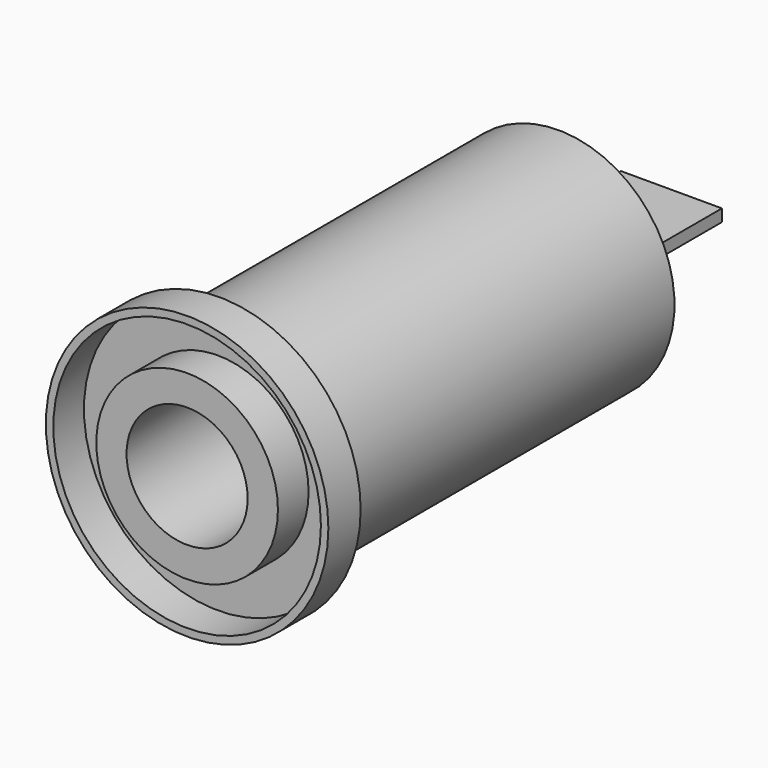
from build123d import *

# Parameters (mm, degrees)
F0_R     = 7
F1_DEPTH = 2
F2_R     = 5.75
F3_DEPTH = 21
F4_R     = 3
F5_DEPTH = 20
F6_R     = 6.6303140267
F6_R_2   = 4.5
F7_DEPTH = 1.9
F8_W     = 5
F8_H     = 8
F9_DEPTH = 0.3


with BuildPart() as f1:
    # F0 (on Front) → F1 (new body)
    with BuildSketch(Plane.XZ):
        Circle(F0_R)
    extrude(amount=-F1_DEPTH)

    # F2 (on face) → F3 (join)
    with BuildSketch(Plane(origin=(0, 2, 0), x_dir=(-1, 0, 0), z_dir=(0, 1, 0))):
        Circle(F2_R)
    extrude(amount=F3_DEPTH)

    # F4 (on face) → F5 (cut)
    with BuildSketch(Plane.XZ):
        Circle(F4_R)
    extrude(amount=-F5_DEPTH, mode=Mode.SUBTRACT)

    # F6 (on face) → F7 (cut)
    with BuildSketch(Plane.XZ):
        Circle(F6_R)
        Circle(F6_R_2, mode=Mode.SUBTRACT)
    extrude(amount=-F7_DEPTH, mode=Mode.SUBTRACT)

    # F8 (on Top) → F9 (join, symmetric)
    with BuildSketch(Plane.XY):
        with Locations((0, 26)):
            Rectangle(F8_W, F8_H)
    extrude(amount=F9_DEPTH, both=True)


solid = f1.part
